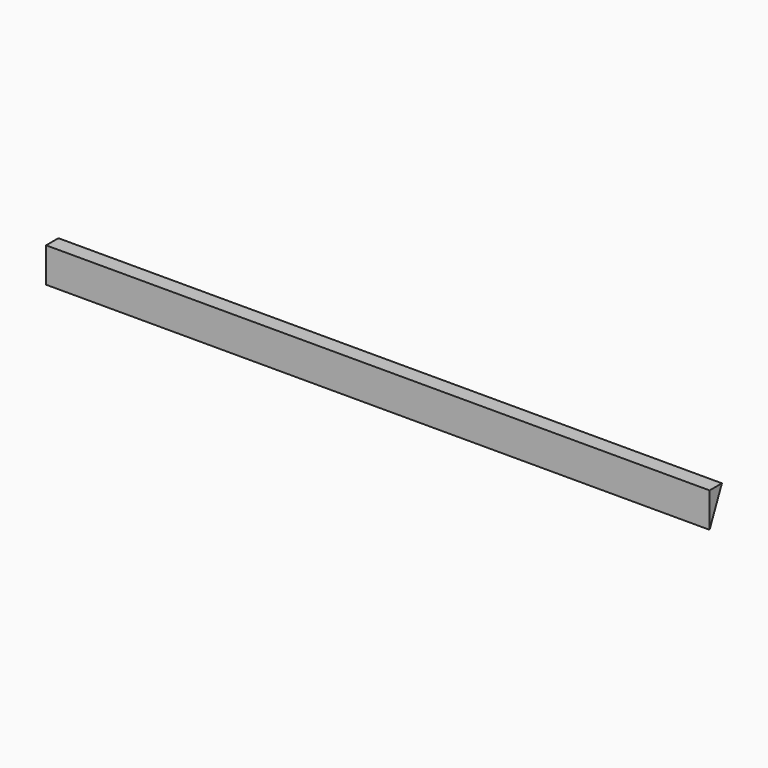
from build123d import *

# Parameters (mm, degrees)
F1_DEPTH = 215


with BuildPart() as f1:
    # F0 (on Right) → F1 (new body, symmetric)
    with BuildSketch(Plane.YZ):
        Polygon((0, 22.5), (0, 0), (10, 22.5), align=None)
    extrude(amount=F1_DEPTH, both=True)


solid = f1.part
